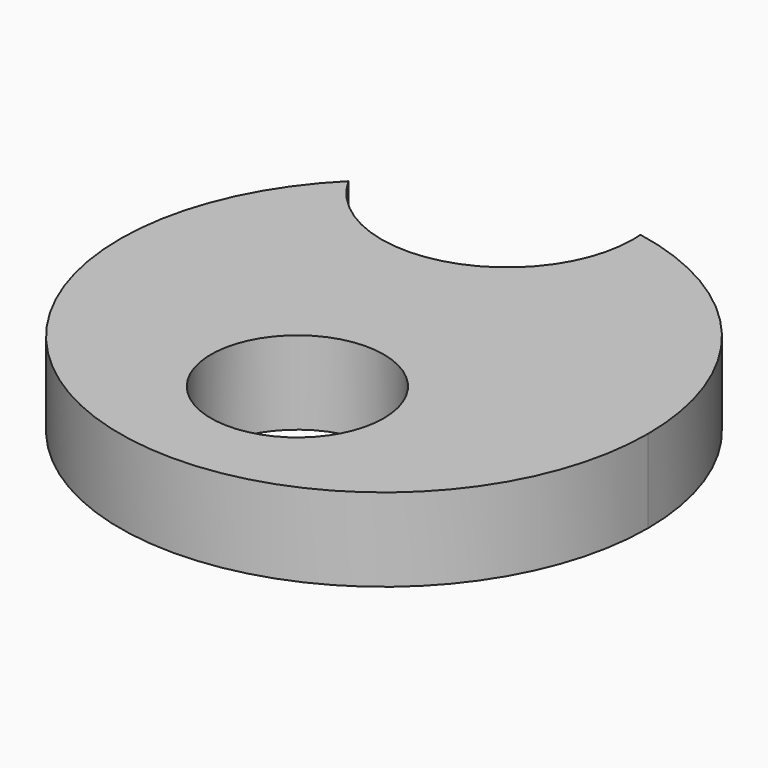
from build123d import *

# Parameters (mm, degrees)
F0_R     = 1.039626
F1_DEPTH = 1


with BuildPart() as f1:
    # F0 (on Top) → F1 (new body)
    with BuildSketch(Plane.XY):
        with BuildLine():
            ThreePointArc((-2.233926, 2.256148), (-1.222275, -2.930302), (3.175, 0))
            ThreePointArc((3.175, 0), (2.444681, 2.025872), (0.589704, 3.119755))
            ThreePointArc((0.589704, 3.119755), (0.593266, 3.059925), (0.594454, 3))
            ThreePointArc((0.594454, 3), (-0.532977, 1.53772), (-2.233926, 2.256148))
        make_face()
        with Locations((0, -1.302305)):
            Circle(F0_R, mode=Mode.SUBTRACT)
    extrude(amount=F1_DEPTH)


solid = f1.part
